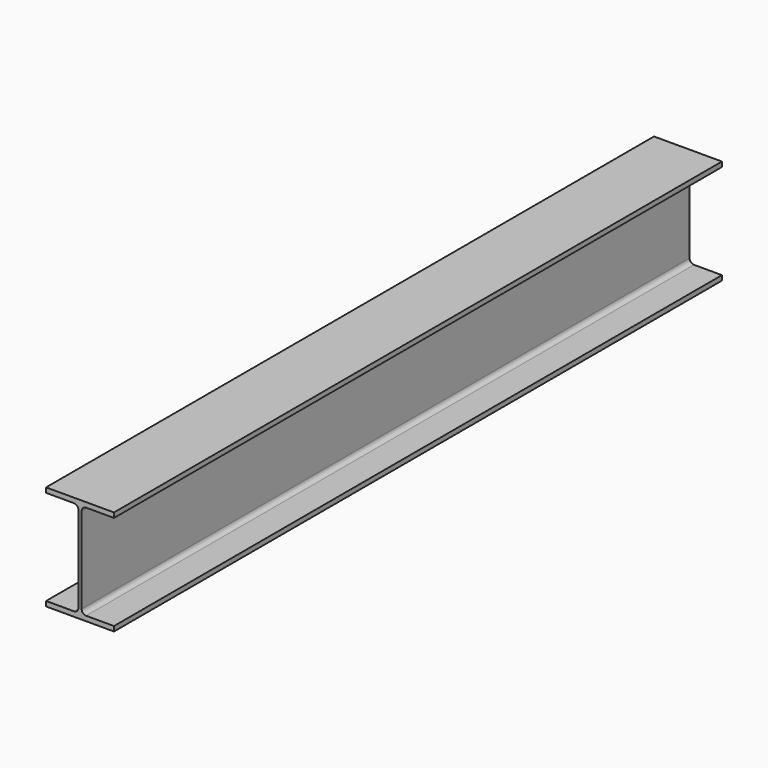
from build123d import *

# Parameters (mm, degrees)
F1_W     = 6.3
F1_H     = 187.8
F2_DEPTH = 1500
F3_R     = 8.9


with BuildPart() as f2:
    # F1 (on Front) → F2 (new body)
    with BuildSketch(Plane.XZ):
        Polygon((67, 0), (-67, 0), (-67, -9.6), (-3.15, -9.6), (3.15, -9.6), (67, -9.6), align=None)
        with Locations((0, -103.5)):
            Rectangle(F1_W, F1_H)
        Polygon((3.15, -197.4), (-3.15, -197.4), (-67, -197.4), (-67, -207), (67, -207), (67, -197.4), align=None)
    extrude(amount=F2_DEPTH)

    # F3
    f3_edges = [f2.edges().sort_by_distance(p)[0] for p in [
        (3.15, -750, -9.6),
        (-3.15, -750, -9.6),
        (3.15, -750, -197.4),
        (-3.15, -750, -197.4),
    ]]
    fillet(f3_edges, radius=F3_R)


solid = f2.part
